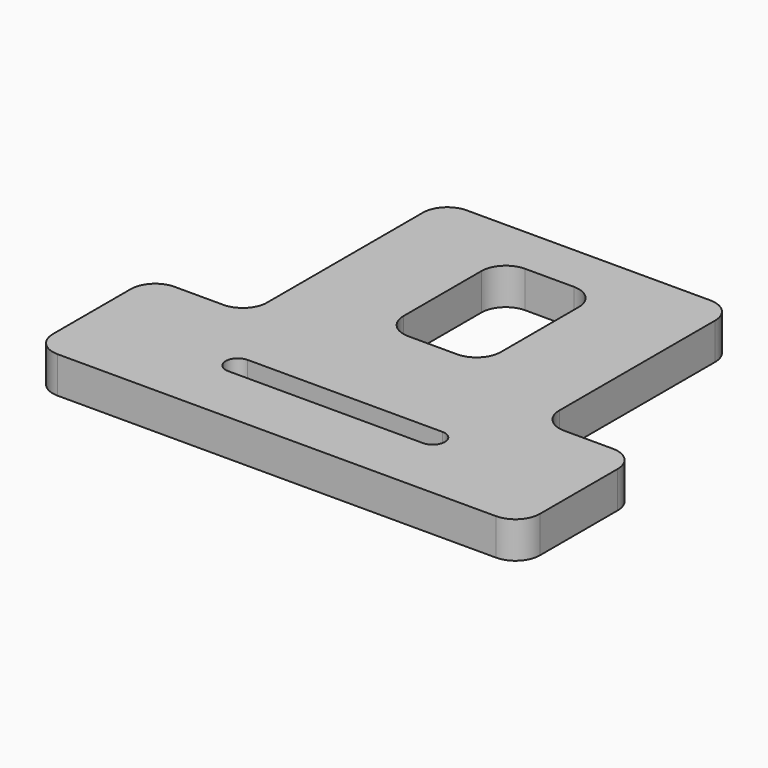
from build123d import *

# Parameters (mm, degrees)
F1_DEPTH = 9.525


with BuildPart() as f1:
    # F0 (on Top) → F1 (new body)
    with BuildSketch(Plane.XY):
        with BuildLine():
            Line((-57.15, -50.8), (57.15, -50.8))
            ThreePointArc((57.15, -50.8), (61.640128, -48.940128), (63.5, -44.45))
            Line((63.5, -44.45), (63.5, -19.05))
            ThreePointArc((63.5, -19.05), (61.640128, -14.559872), (57.15, -12.7))
            Line((57.15, -12.7), (44.45, -12.7))
            ThreePointArc((44.45, -12.7), (39.959872, -10.840128), (38.1, -6.35))
            Line((38.1, -6.35), (38.1, 44.45))
            ThreePointArc((38.1, 44.45), (36.240128, 48.940128), (31.75, 50.8))
            Line((31.75, 50.8), (-31.75, 50.8))
            ThreePointArc((-31.75, 50.8), (-36.240128, 48.940128), (-38.1, 44.45))
            Line((-38.1, 44.45), (-38.1, -6.35))
            ThreePointArc((-38.1, -6.35), (-39.959872, -10.840128), (-44.45, -12.7))
            Line((-44.45, -12.7), (-57.15, -12.7))
            ThreePointArc((-57.15, -12.7), (-61.640128, -14.559872), (-63.5, -19.05))
            Line((-63.5, -19.05), (-63.5, -44.45))
            ThreePointArc((-63.5, -44.45), (-61.640128, -48.940128), (-57.15, -50.8))
        make_face()
        with BuildLine():
            ThreePointArc((25.4, -28.575), (28.575, -31.75), (25.4, -34.925))
            Line((25.4, -34.925), (-25.4, -34.925))
            ThreePointArc((-25.4, -34.925), (-28.575, -31.75), (-25.4, -28.575))
            Line((-25.4, -28.575), (25.4, -28.575))
        make_face(mode=Mode.SUBTRACT)
        with BuildLine():
            ThreePointArc((12.7, 6.35), (10.840128, 1.859872), (6.35, 0))
            Line((6.35, 0), (-6.35, 0))
            ThreePointArc((-6.35, 0), (-10.840128, 1.859872), (-12.7, 6.35))
            Line((-12.7, 6.35), (-12.7, 31.75))
            ThreePointArc((-12.7, 31.75), (-10.840128, 36.240128), (-6.35, 38.1))
            Line((-6.35, 38.1), (6.35, 38.1))
            ThreePointArc((6.35, 38.1), (10.840128, 36.240128), (12.7, 31.75))
            Line((12.7, 31.75), (12.7, 6.35))
        make_face(mode=Mode.SUBTRACT)
    extrude(amount=F1_DEPTH)


solid = f1.part
